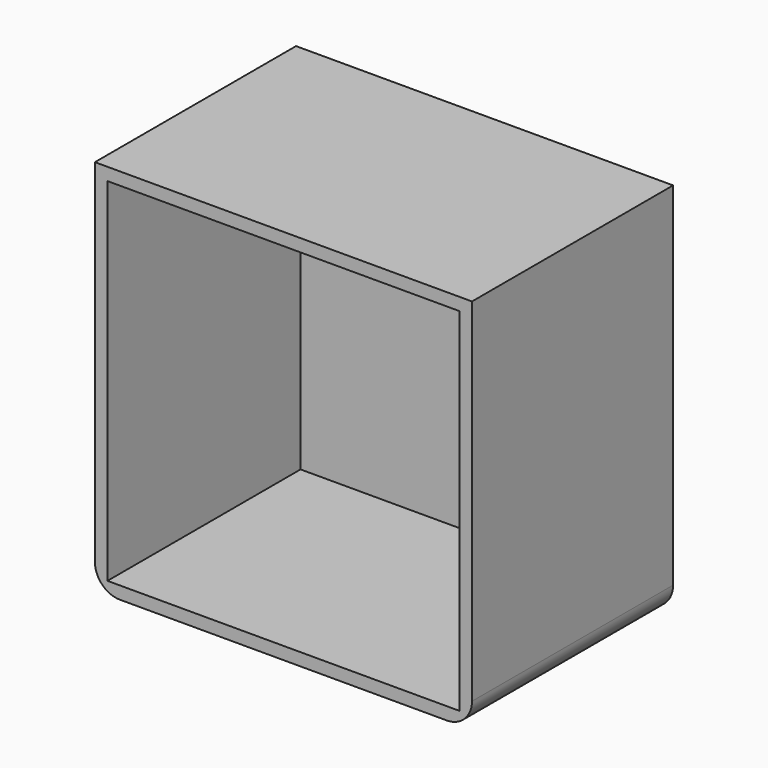
from build123d import *

# Parameters (mm, degrees)
F0_W     = 75
F0_H     = 75
F0_W_2   = 70
F0_H_2   = 70
F1_DEPTH = 25
F2_R     = 5
F3_W     = 70
F3_H     = 70
F4_DEPTH = 2


with BuildPart() as f1:
    # F0 (on Front) → F1 (new body, symmetric)
    with BuildSketch(Plane.XZ):
        Rectangle(F0_W, F0_H)
        Rectangle(F0_W_2, F0_H_2, mode=Mode.SUBTRACT)
    extrude(amount=F1_DEPTH, both=True)

    # F2
    f2_edges = [f1.edges().sort_by_distance(p)[0] for p in [
        (-37.5, 0, -37.5),
        (37.5, 0, -37.5),
    ]]
    fillet(f2_edges, radius=F2_R)


with BuildPart() as f4:
    # F3 (on face) → F4 (new body)
    with BuildSketch(Plane(origin=(0, 25, 0), x_dir=(-1, 0, 0), z_dir=(0, 1, 0))):
        Rectangle(F3_W, F3_H)
    extrude(amount=-F4_DEPTH)


solid = Compound([f1.part, f4.part])
